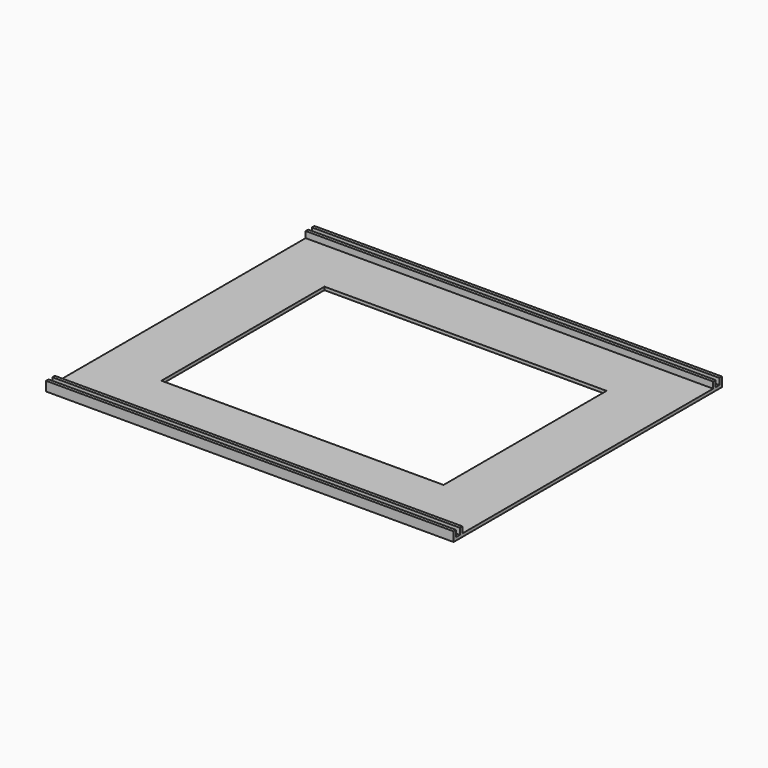
from build123d import *

# Parameters (mm, degrees)
SKETCH_W          = 130
SKETCH_H          = 107
PAD_DEPTH         = 1
SKETCH001_W       = 130
SKETCH001_H       = 1
PAD001_DEPTH      = 2
SKETCH002_W       = 130
SKETCH002_H       = 1
PAD002_DEPTH      = 2
SKETCH003_W       = 130
SKETCH003_H       = 1
PAD003_DEPTH      = 2
SKETCH004_W       = 130
SKETCH004_H       = 1
PAD004_DEPTH      = 2
SKETCH005_W       = 90
SKETCH005_H       = 65
POCKET_DEPTH      = 1.001
POCKET_DEPTH_BACK = 2.001


with BuildPart() as part:
    # Sketch → Pad (new body)
    with BuildSketch(Plane.XY):
        with Locations((65, 53.5)):
            Rectangle(SKETCH_W, SKETCH_H)
    extrude(amount=-PAD_DEPTH)

    # Sketch001 → Pad001 (join)
    with BuildSketch(Plane.XY):
        with Locations((65, 106.5)):
            Rectangle(SKETCH001_W, SKETCH001_H)
    extrude(amount=PAD001_DEPTH)

    # Sketch002 → Pad002 (join)
    with BuildSketch(Plane.XY):
        with Locations((65, 104)):
            Rectangle(SKETCH002_W, SKETCH002_H)
    extrude(amount=PAD002_DEPTH)

    # Sketch003 → Pad003 (join)
    with BuildSketch(Plane.XY):
        with Locations((65, 3)):
            Rectangle(SKETCH003_W, SKETCH003_H)
    extrude(amount=PAD003_DEPTH)

    # Sketch004 → Pad004 (join)
    with BuildSketch(Plane.XY):
        with Locations((65, 0.5)):
            Rectangle(SKETCH004_W, SKETCH004_H)
    extrude(amount=PAD004_DEPTH)

    # Sketch005 → Pocket (cut, two sides)
    with BuildSketch(Plane.XY) as pocket_sk:
        with Locations((65, 53.5)):
            Rectangle(SKETCH005_W, SKETCH005_H)
    extrude(amount=-POCKET_DEPTH, mode=Mode.SUBTRACT)
    extrude(pocket_sk.sketch, amount=POCKET_DEPTH_BACK, mode=Mode.SUBTRACT)


solid = part.part
